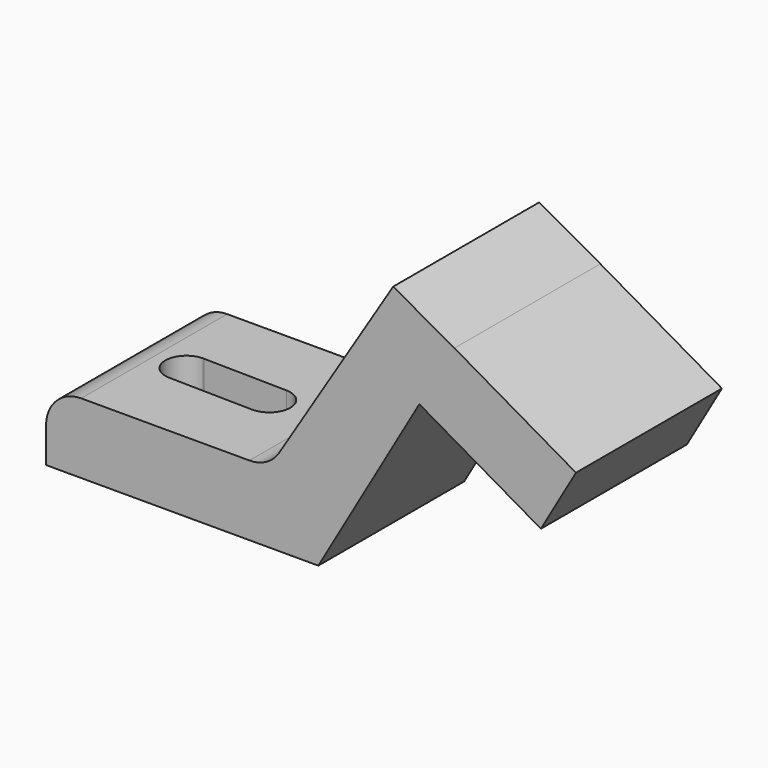
from build123d import *

# Parameters (mm, degrees)
F1_DEPTH = 26
F3_DEPTH = 42.692334


with BuildPart() as f1:
    # F0 (on Front) → F1 (new body)
    with BuildSketch(Plane.XZ):
        with BuildLine():
            Line((-9.599707, 9.211308), (-9.599707, 4.211308))
            Line((-9.599707, 4.211308), (29.200293, 4.211308))
            Line((29.200293, 4.211308), (43.600293, 29.152839))
            Line((43.600293, 29.152839), (48.600293, 37.813093))
            Line((48.600293, 37.813093), (39.870873, 42.691334))
            Line((39.870873, 42.691334), (23.628611, 16.571015))
            ThreePointArc((23.628611, 16.571015), (21.811412, 14.840869), (19.382571, 14.211308))
            Line((19.382571, 14.211308), (-4.599707, 14.211308))
            ThreePointArc((-4.599707, 14.211308), (-8.135241, 12.746842), (-9.599707, 9.211308))
        make_face()
        Polygon((48.600293, 37.813093), (43.600293, 29.152839), (60.920801, 19.152839), (65.920801, 27.813093), align=None)
        with BuildLine():
            Line((-9.599707, 9.211308), (-9.599707, 4.211308))
            Line((-9.599707, 4.211308), (29.200293, 4.211308))
            Line((29.200293, 4.211308), (43.600293, 29.152839))
            Line((43.600293, 29.152839), (48.600293, 37.813093))
            Line((48.600293, 37.813093), (39.870873, 42.691334))
            Line((39.870873, 42.691334), (23.628611, 16.571015))
            ThreePointArc((23.628611, 16.571015), (21.811412, 14.840869), (19.382571, 14.211308))
            Line((19.382571, 14.211308), (-4.599707, 14.211308))
            ThreePointArc((-4.599707, 14.211308), (-8.135241, 12.746842), (-9.599707, 9.211308))
        make_face()
    extrude(amount=F1_DEPTH)

    # F2 (on Top) → F3 (cut, through all)
    with BuildSketch(Plane.XY):
        with BuildLine():
            Line((0.116861, -10.002277), (0, -10))
            ThreePointArc((0, -10), (-3, -13), (0, -16))
            ThreePointArc((0, -16), (2.12132, -15.12132), (3, -13))
            ThreePointArc((3, -13), (2.162242, -10.920407), (0.116861, -10.002277))
        make_face()
        with BuildLine():
            ThreePointArc((0.116861, -10.002277), (0.058442, -10.000569), (0, -10))
            Line((0, -10), (0.116861, -10.002277))
        make_face()
        with BuildLine():
            ThreePointArc((3, -13), (2.12132, -15.12132), (0, -16))
            Line((0, -16), (11.941272, -16.233806))
            ThreePointArc((11.941272, -16.233806), (9.000572, -13.175796), (12.058442, -10.23495))
            Line((12.058442, -10.23495), (0.116861, -10.002277))
            ThreePointArc((0.116861, -10.002277), (2.162242, -10.920407), (3, -13))
        make_face()
        with BuildLine():
            ThreePointArc((12.058442, -10.23495), (9.000572, -13.175796), (11.941272, -16.233806))
            ThreePointArc((11.941272, -16.233806), (14.100454, -15.376364), (15, -13.234381))
            ThreePointArc((15, -13.234381), (14.141883, -11.133824), (12.058442, -10.23495))
        make_face()
    extrude(amount=F3_DEPTH, mode=Mode.SUBTRACT)


solid = f1.part
